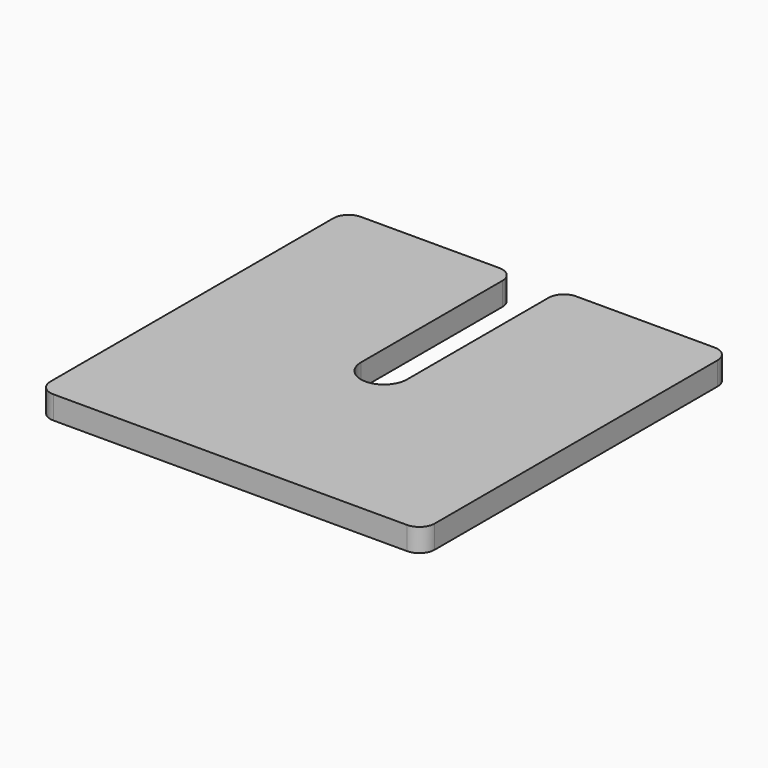
from build123d import *

# Parameters (mm, degrees)
CYLINDER_R     = 3
CYLINDER_DEPTH = 10
BOX001_W       = 6
BOX001_H       = 27
BOX001_DEPTH   = 10
BOX_W          = 50
BOX_H          = 50
BOX_DEPTH      = 3
FILLET_R       = 2


with BuildPart() as cylinder:
    # Cylinder → Cylinder (new body)
    with BuildSketch(Plane.XY):
        Circle(CYLINDER_R)
    extrude(amount=CYLINDER_DEPTH)


with BuildPart() as fusion:
    # Box001 → Box001 (new body)
    with BuildSketch(Plane(origin=(-3, 0, 0), x_dir=(1, 0, 0), z_dir=(0, 0, 1))):
        with Locations((3, 13.5)):
            Rectangle(BOX001_W, BOX001_H)
    extrude(amount=BOX001_DEPTH)

    # Fusion: union Cylinder
    add(cylinder.part)


with BuildPart() as fillet_body:
    # Box → Box (new body)
    with BuildSketch(Plane(origin=(-25, -25, 0), x_dir=(1, 0, 0), z_dir=(0, 0, 1))):
        with Locations((25, 25)):
            Rectangle(BOX_W, BOX_H)
    extrude(amount=BOX_DEPTH)

    # Cut: cut Fusion
    add(fusion.part, mode=Mode.SUBTRACT)

    # Fillet
    fillet_edges = [fillet_body.edges().sort_by_distance(p)[0] for p in [
        (-25, -25, 1.5),
        (-25, 25, 1.5),
        (25, -25, 1.5),
        (-3, 25, 1.5),
        (25, 25, 1.5),
        (3, 25, 1.5),
    ]]
    fillet(fillet_edges, radius=FILLET_R)


solid = fillet_body.part
